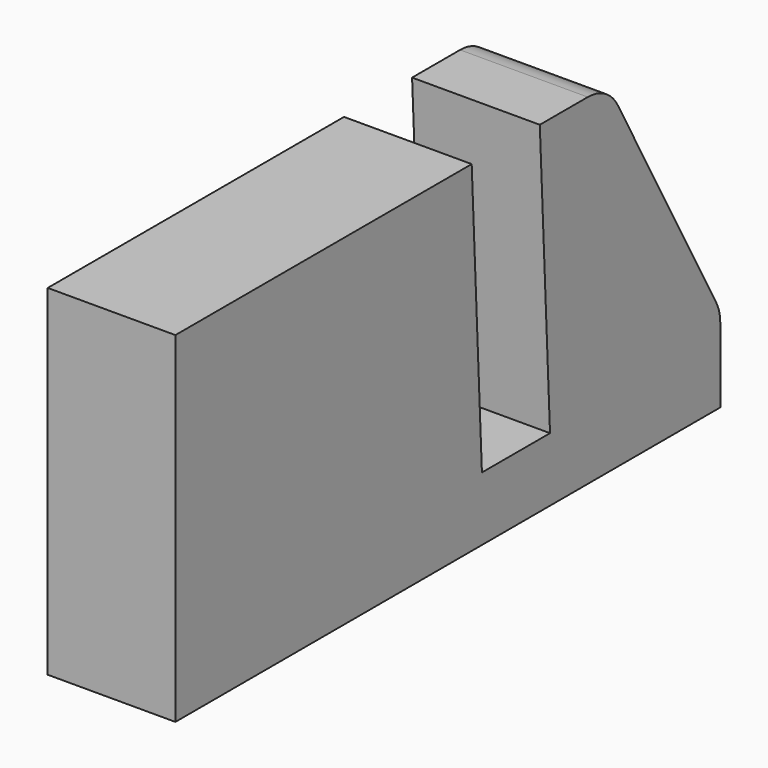
from build123d import *

# Parameters (mm, degrees)
F1_DEPTH = 30
F2_R     = 10


with BuildPart() as f1:
    # F0 (on Right) → F1 (new body)
    with BuildSketch(Plane.YZ):
        Polygon((-160, 65), (-160, 0), (-160, -15), (0, -15), (0, 5), (-33, 65), (-53, 65), (-50, 0), (-70, 0), (-73, 65), align=None)
    extrude(amount=F1_DEPTH)

    # F2
    f2_edges = [f1.edges().sort_by_distance(p)[0] for p in [
        (15, -33, 65),
        (15, 0, 5),
    ]]
    fillet(f2_edges, radius=F2_R)


solid = f1.part
